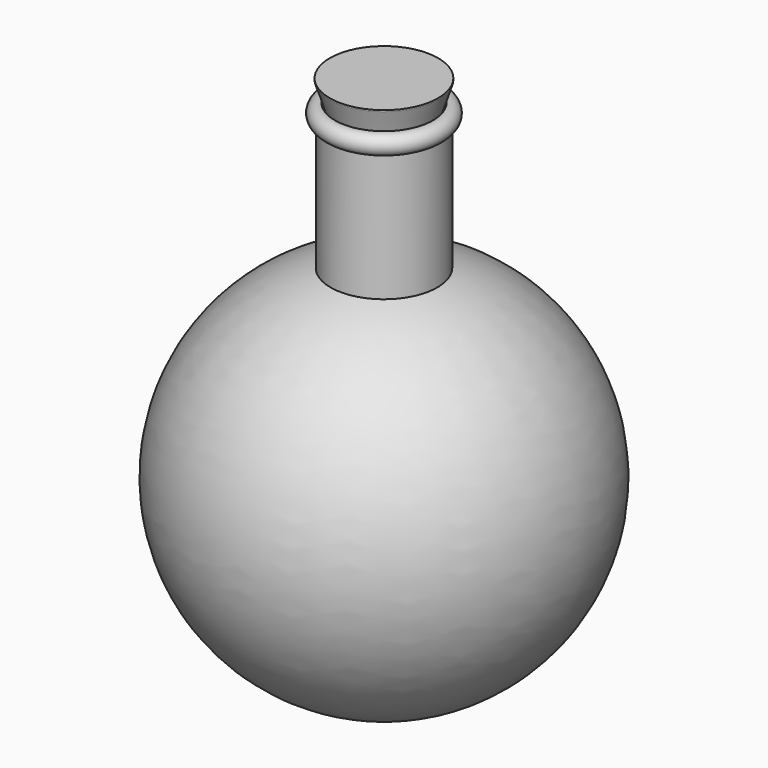
from build123d import *


with BuildPart() as f1:
    # F0 (on Front) → F1 (revolve)
    with BuildSketch(Plane.XZ):
        with BuildLine():
            Line((0, -42.388845), (0, 18.830655))
            Line((0, 18.830655), (-6.114459, 18.830655))
            Line((-6.114459, 18.830655), (-6.114459, 18.668111))
            Line((-6.114459, 18.668111), (-5.250454, 15.946105))
            Line((-5.250454, 15.946105), (-5.522727, 15.946105))
            Line((-5.522727, 15.946105), (-5.522727, 16.430145))
            ThreePointArc((-5.522727, 16.430145), (-6.834156, 15.616339), (-6.015645, 14.307842))
            Line((-6.015645, 14.307842), (-6.015645, 0))
            ThreePointArc((-6.015645, 0), (-21.319174, -23.793092), (0, -42.388845))
        make_face()
    revolve(axis=Axis((0, 0, -11.779095), (0, 0, -1)))


solid = f1.part
